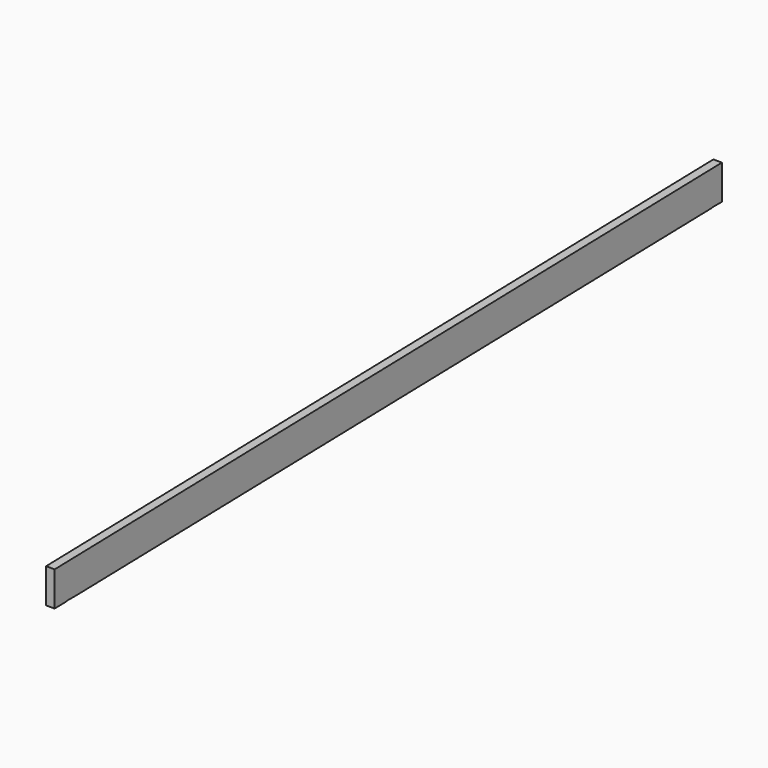
from build123d import *

# Parameters (mm, degrees)
F1_DEPTH = 36
F3_DEPTH = 36.001
F5_DEPTH = 36.001


with BuildPart() as f1:
    # F0 (on Right) → F1 (new body)
    with BuildSketch(Plane.YZ):
        Polygon((-1638.08888, 0), (-1638.08888, -145), (1861.91112, -65), (1861.91112, 80), align=None)
    extrude(amount=F1_DEPTH)

    # F2 (on face) → F3 (cut, through all)
    with BuildSketch(Plane.YZ.offset(36)):
        Polygon((1874.584966, -79.733009), (1861.91112, -65), (1811.91112, -65), (1811.91112, -79.733009), align=None)
    extrude(amount=-F3_DEPTH, mode=Mode.SUBTRACT)

    # F4 (on face) → F5 (cut, through all)
    with BuildSketch(Plane.YZ.offset(36)):
        Polygon((-1516.11602, -160.75219), (-1518.08888, -142.257143), (-1574.831346, -142.257143), (-1574.831346, -160.75219), align=None)
    extrude(amount=-F5_DEPTH, mode=Mode.SUBTRACT)


solid = f1.part
